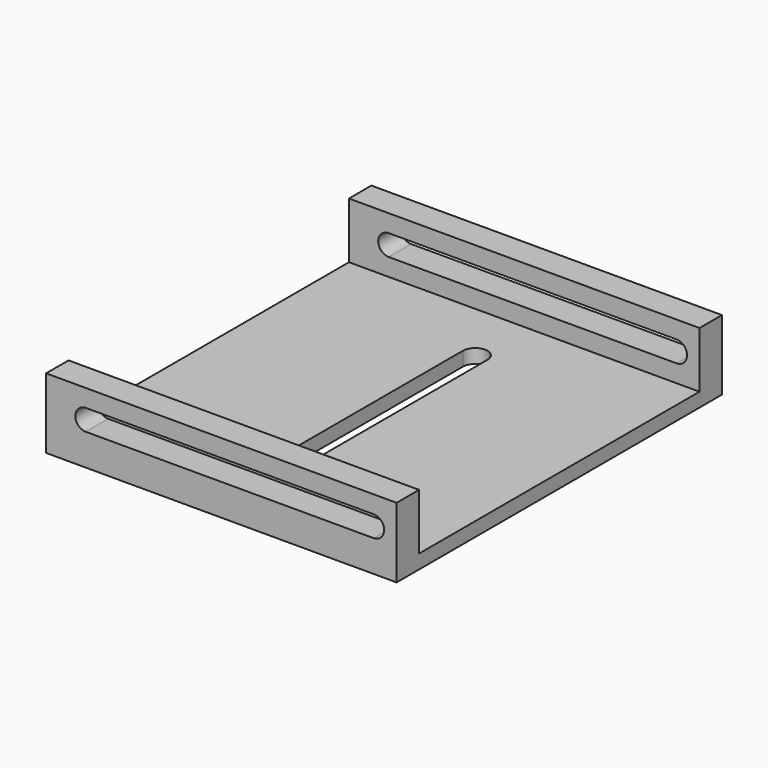
from build123d import *

# Parameters (mm, degrees)
F0_W          = 100
F0_H          = 100
F1_DEPTH      = 4
F2_W          = 100
F2_H          = 8
F3_DEPTH      = 20
F5_DEPTH      = 58.001
F5_DEPTH_BACK = 58.001


with BuildPart() as f1:
    # F0 (on Top) → F1 (new body)
    with BuildSketch(Plane.XY):
        Rectangle(F0_W, F0_H)
        with BuildLine():
            Line((3.5, 32.5), (3.5, -32.5))
            ThreePointArc((3.5, -32.5), (0, -36), (-3.5, -32.5))
            Line((-3.5, -32.5), (-3.5, 32.5))
            ThreePointArc((-3.5, 32.5), (0, 36), (3.5, 32.5))
        make_face(mode=Mode.SUBTRACT)
    extrude(amount=F1_DEPTH)

    # F2 (on Top) → F3 (join)
    with BuildSketch(Plane.XY):
        with Locations((0, 54)):
            Rectangle(F2_W, F2_H)
        with Locations((0, -54)):
            Rectangle(F2_W, F2_H)
    extrude(amount=F3_DEPTH)

    # F4 (on Front) → F5 (cut, two sides)
    with BuildSketch(Plane.XZ) as f5_sk:
        with BuildLine():
            ThreePointArc((-38.6532023549, 15), (-41.6532023549, 12), (-38.6532023549, 9))
            Line((-38.6532023549, 9), (43.4487722814, 9))
            ThreePointArc((43.4487722814, 9), (46.4487722814, 12), (43.4487722814, 15))
            Line((43.4487722814, 15), (-38.6532023549, 15))
        make_face()
    extrude(amount=-F5_DEPTH, mode=Mode.SUBTRACT)
    extrude(f5_sk.sketch, amount=F5_DEPTH_BACK, mode=Mode.SUBTRACT)


solid = f1.part
